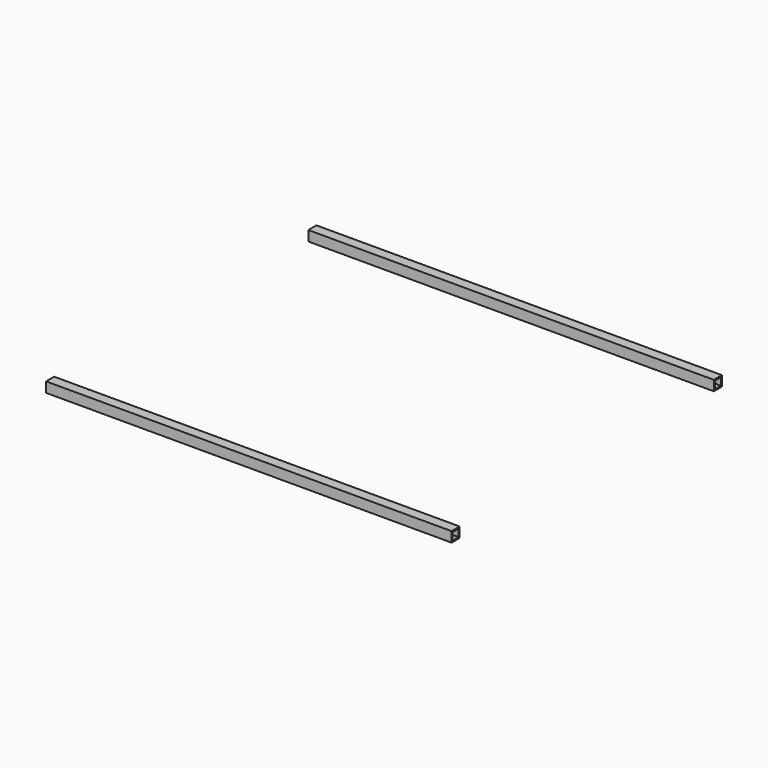
from build123d import *

# Parameters (mm, degrees)
F0_W     = 30
F0_H     = 30
F0_W_2   = 22
F0_H_2   = 22
F1_DEPTH = 1200


with BuildPart() as f1:
    # F0 (on Right) → F1 (new body)
    with BuildSketch(Plane.YZ):
        Rectangle(F0_W, F0_H)
        Rectangle(F0_W_2, F0_H_2, mode=Mode.SUBTRACT)
    extrude(amount=F1_DEPTH)


with BuildPart() as f3_1:
    # F3: instance of F1
    add(f1.part.mirror(Plane(origin=(600, 485, 0), x_dir=(-1, 0, 0), z_dir=(0, 1, 0))))


solid = Compound([f1.part, f3_1.part])
